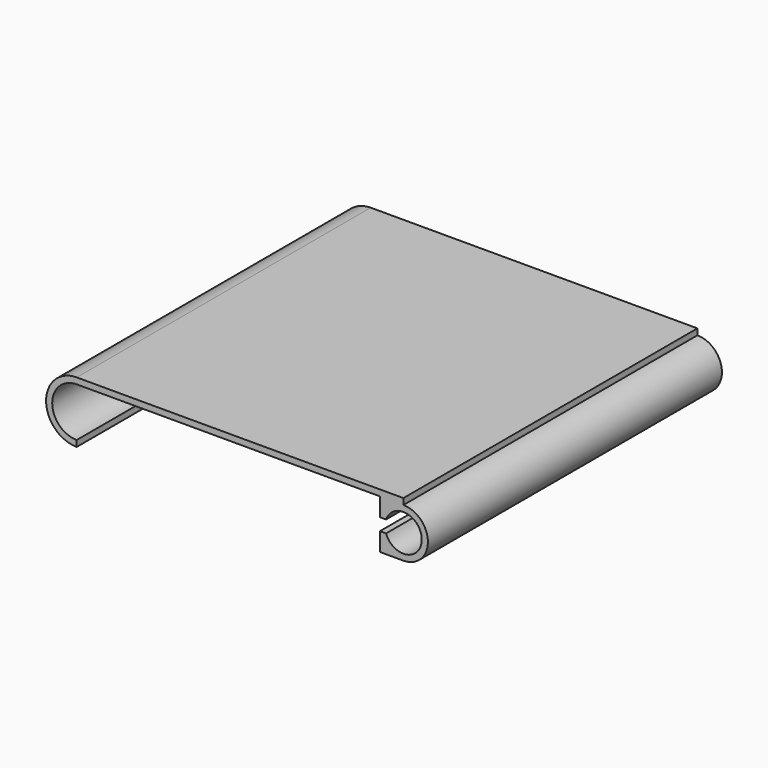
from build123d import *

# Parameters (mm, degrees)
F1_DEPTH = 90
F2_T     = -1.5
F4_DEPTH = 90.001
F6_DEPTH = 90


with BuildPart() as f1:
    # F0 (on Front) → F1 (new body)
    with BuildSketch(Plane.XZ):
        with BuildLine():
            ThreePointArc((40, -7.5), (47.5, 0), (40, 7.5))
            Line((40, 7.5), (-40, 7.5))
            ThreePointArc((-40, 7.5), (-47.5, 0), (-40, -7.5))
            Line((-40, -7.5), (40, -7.5))
        make_face()
    extrude(amount=F1_DEPTH)

    # F2
    f2_openings = [f1.faces().sort_by_distance(p)[0] for p in [
        (0, -90, 0),
        (0, 0, 0),
    ]]
    offset(amount=F2_T, openings=f2_openings)

    # F3 (on Front) → F4 (cut, through all)
    with BuildSketch(Plane.XZ):
        with BuildLine():
            ThreePointArc((40, 6), (46, 0), (40, -6))
            Line((40, -6), (-40, -6))
            Line((-40, -6), (-40, -7.5))
            Line((-40, -7.5), (40, -7.5))
            ThreePointArc((40, -7.5), (47.5, 0), (40, 7.5))
            Line((40, 7.5), (40, 6))
        make_face()
    extrude(amount=F4_DEPTH, mode=Mode.SUBTRACT)

    # F5 (on Front) → F6 (join, through all)
    with BuildSketch(Plane.XZ):
        with BuildLine():
            Line((34.257359, -6), (40, -6))
            ThreePointArc((40, -6), (46, 0), (40, 6))
            Line((40, 6), (34.257359, 6))
            Line((34.257359, 6), (34.257359, 1.5))
            Line((34.257359, 1.5), (35.757359, 1.5))
            ThreePointArc((35.757359, 1.5), (44.5, 0), (35.757359, -1.5))
            Line((35.757359, -1.5), (34.257359, -1.5))
            Line((34.257359, -1.5), (34.257359, -6))
        make_face()
    extrude(amount=F6_DEPTH)


solid = f1.part
